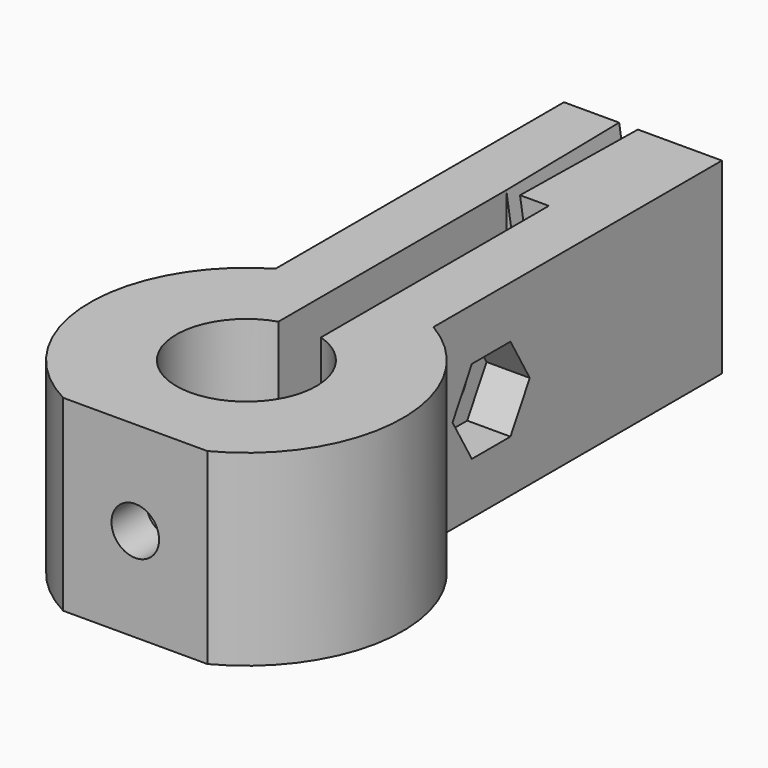
from build123d import *

# Parameters (mm, degrees)
F1_DEPTH       = 13
F4_DEPTH       = 3
F5_R           = 1.65
F6_DEPTH       = 1
F8_DEPTH       = 4
F11_DEPTH      = 3
F11_DEPTH_BACK = 2
F12_R          = 1.65
F13_DEPTH      = 3


with BuildPart() as f1:
    # F0 (on Top) → F1 (new body)
    with BuildSketch(Plane.XY):
        with BuildLine():
            Line((0, 0), (5, 0))
            ThreePointArc((5, 0), (10.8477089738, 9.3590674898), (5.4753859206, 18.9988802231))
            Line((5.4753859206, 18.9988802231), (5.4753859206, 43.9988802231))
            Line((5.4753859206, 43.9988802231), (0.649909985, 43.9988802231))
            Line((0.649909985, 43.9988802231), (0.4753859206, 34.0004032716))
            Line((0.4753859206, 34.0004032716), (1.4753859206, 34.0004032716))
            Line((1.4753859206, 34.0004032716), (1.4753859206, 14.2518003603))
            ThreePointArc((1.4753859206, 14.2518003603), (4.7933098793, 8.8839089986), (0, 4.7793922831))
            Line((0, 4.7793922831), (0, 0))
        make_face()
    extrude(amount=F1_DEPTH)

    # F2: F1 across plane


with BuildPart() as f1_1:
    add(f1.part)
    add(f1.part.mirror(Plane.YZ))

    # F3 (on face) → F4 (cut)
    with BuildSketch(Plane.YZ.offset(5.4753859206)):
        Polygon((22.3245644425, 3.6), (25.6731960038, 3.6), (27.3475117844, 6.5), (25.6731960038, 9.4), (22.3245644425, 9.4), (20.6502486618, 6.5), align=None)
    extrude(amount=-F4_DEPTH, mode=Mode.SUBTRACT)

    # F5 (on face) → F6 (cut, through all)
    with BuildSketch(Plane.YZ.offset(2.4753859206)):
        with Locations((23.9988802231, 6.5)):
            Circle(F5_R)
    extrude(amount=-F6_DEPTH, mode=Mode.SUBTRACT)

    # F7 (on face) → F8 (cut, through all)
    with BuildSketch(Plane(origin=(-5.4753859206, 0, 0), x_dir=(0, -1, 0), z_dir=(-1, 0, 0))):
        with BuildLine():
            ThreePointArc((-22.9988802231, 4.85), (-21.3488802231, 6.5), (-22.9988802231, 8.15))
            Line((-22.9988802231, 8.15), (-24.9988802231, 8.15))
            ThreePointArc((-24.9988802231, 8.15), (-26.6488802231, 6.5), (-24.9988802231, 4.85))
            Line((-24.9988802231, 4.85), (-22.9988802231, 4.85))
        make_face()
    extrude(amount=-F8_DEPTH, mode=Mode.SUBTRACT)

    # F10 (on offset) → F11 (cut, two sides)
    with BuildSketch(Plane.XZ.offset(-5)) as f11_sk:
        Polygon((1.7358122868, 3.6363853195), (3.3478692034, 6.5714501963), (1.6120569166, 9.4350648768), (-1.7358122868, 9.3636146805), (-3.3478692034, 6.4285498037), (-1.6120569166, 3.5649351232), align=None)
    extrude(amount=-F11_DEPTH, mode=Mode.SUBTRACT)
    extrude(f11_sk.sketch, amount=F11_DEPTH_BACK, mode=Mode.SUBTRACT)

    # F12 (on face) → F13 (cut, through all)
    with BuildSketch(Plane(origin=(0, 3, 0), x_dir=(-1, 0, 0), z_dir=(0, 1, 0))):
        with Locations((0, 6.5)):
            Circle(F12_R)
    extrude(amount=-F13_DEPTH, mode=Mode.SUBTRACT)

    # F15: sweep along a path in F15_path
    with BuildLine(Plane(origin=(-0.649909985, 43.9988802231, 13), x_dir=(-0.0174524064, 0.9998476952, 0), z_dir=(-0.9998476952, -0.0174524064, 0))) as f15_path:
        Line((0, 0), (-10, 0))
    # F14 (on face) → F15 (sweep, cut)
    with BuildSketch(Plane(origin=(0, 43.9988802231, 0), x_dir=(-1, 0, 0), z_dir=(0, 1, 0))):
        Polygon((0.649909985, 6.5), (1.649909985, 13), (0.449909985, 13), (0.449909985, 0), (1.649909985, 0), align=None)
    sweep(path=f15_path.line, mode=Mode.SUBTRACT)

    # F17: sweep along a path in F17_path
    with BuildLine(Plane(origin=(0.4753859206, 34.0004032716, 13), x_dir=(-0.0174524064, -0.9998476952, 0), z_dir=(0.9998476952, -0.0174524064, 0))) as f17_path:
        Line((0, 0), (-10, 0))
    # F16 (on face) → F17 (sweep)
    with BuildSketch(Plane(origin=(0, 43.9988802231, 0), x_dir=(-1, 0, 0), z_dir=(0, 1, 0))):
        Polygon((-0.649909985, 6.5), (0.350090015, 13), (-1.3149922222, 13), (-1.3149922222, 0), (0.350090015, 0), align=None)
    sweep(path=f17_path.line)


solid = f1_1.part
